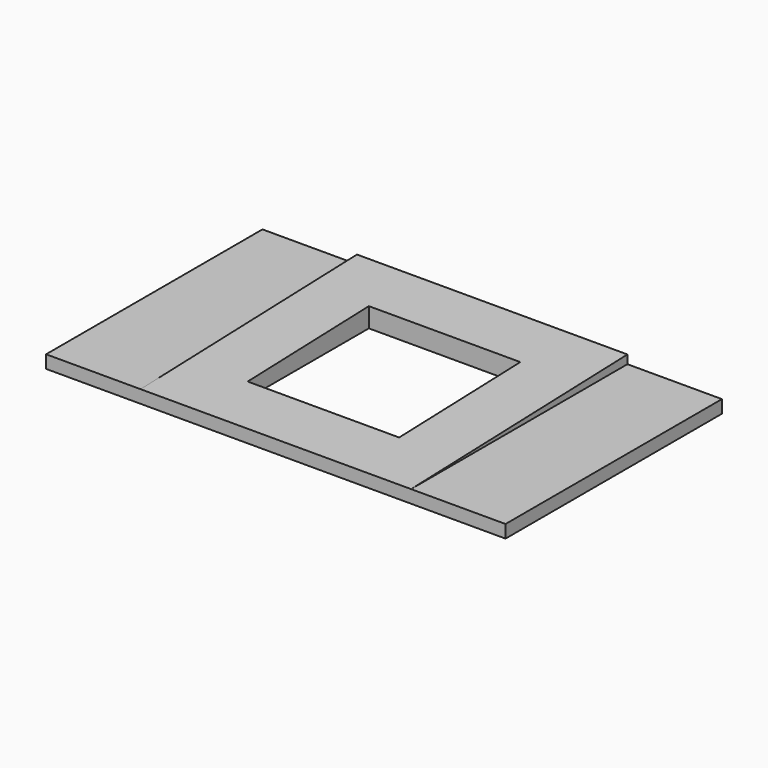
from build123d import *

# Parameters (mm, degrees)
F0_W     = 169.8625
F0_H     = 100
F1_DEPTH = 4.7625
F3_DEPTH = 50
F4_DEPTH = 50
F5_W     = 56
F5_H     = 56
F6_DEPTH = 7.9385


with BuildPart() as f1:
    # F0 (on Top) → F1 (new body)
    with BuildSketch(Plane.XY):
        Rectangle(F0_W, F0_H)
    extrude(amount=F1_DEPTH)

    # F2 (on Right) → F3 (join)
    with BuildSketch(Plane.YZ):
        Polygon((-50, 4.7625), (50, 4.7625), (50, 7.9375), align=None)
    extrude(amount=F3_DEPTH)

    # F3_face (on face) → F4 (join)
    with BuildSketch(Plane(origin=(0, 16.666667, 5.820833), x_dir=(0, 1, 0), z_dir=(-1, 0, 0))):
        Polygon((33.333333, 1.058333), (-66.666667, 1.058333), (33.333333, -2.116667), align=None)
    extrude(amount=F4_DEPTH)

    # F5 (on face) → F6 (cut, through all)
    with BuildSketch(Plane(origin=(0, 0, 0), x_dir=(1, 0, 0), z_dir=(0, 0, -1))):
        Rectangle(F5_W, F5_H)
    extrude(amount=-F6_DEPTH, mode=Mode.SUBTRACT)


solid = f1.part
